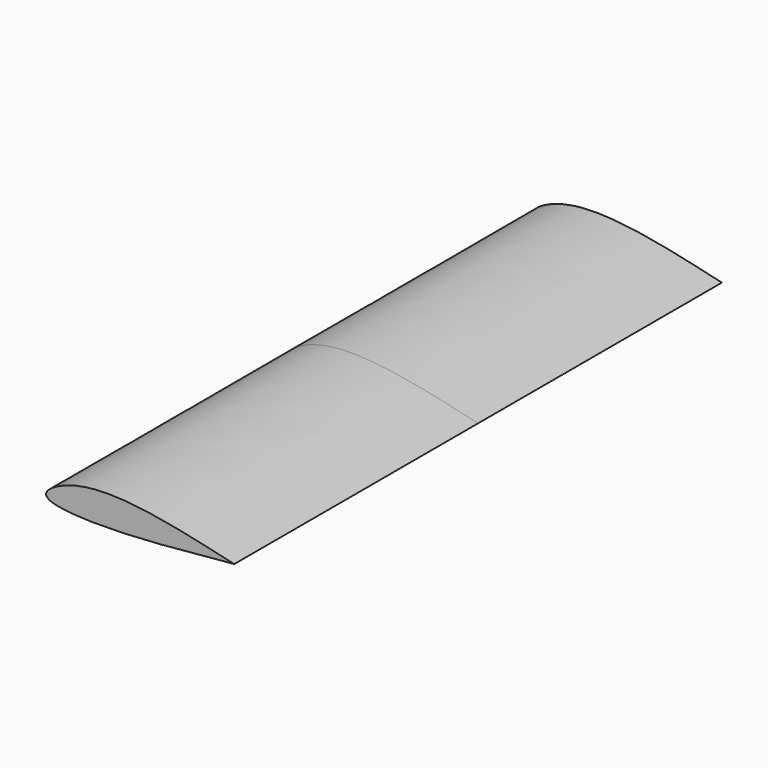
from build123d import *

# Parameters (mm, degrees)
F1_DEPTH = 50


with BuildPart() as f1:
    # F0 (on Front) → F1 (new body, symmetric)
    with BuildSketch(Plane.XZ):
        with BuildLine():
            add(Edge.make_bspline(
                [(18.7680758536, 0), (9.9827125148, -0.8532598884), (-3.4249616563, -2.1554519693), (-14.8086647957, -0.5571910415), (-4.366196267, 5.3952045433), (9.6028323945, 2.1468925553), (18.8353210688, 0)],
                knots=[0, 0, 0, 0, 0.3260605177, 0.4976132474, 0.6679597332, 1, 1, 1, 1], degree=3))
            Line((18.7680758536, 0), (18.8353210688, 0))
        make_face()
    extrude(amount=F1_DEPTH, both=True)


solid = f1.part
